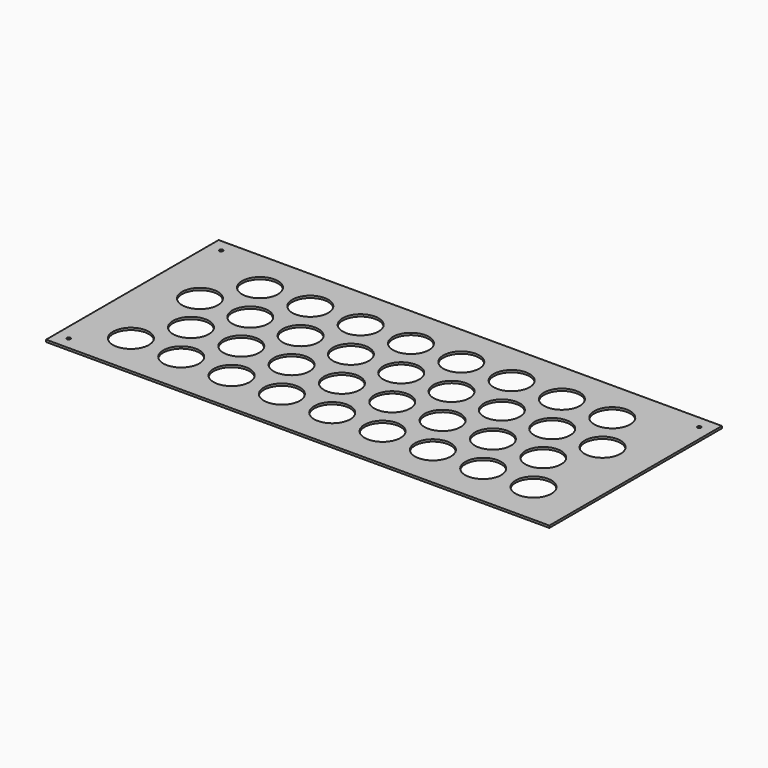
from build123d import *

# Parameters (mm, degrees)
F0_W     = 700
F0_H     = 300
F0_R     = 2.5
F0_R_2   = 25
F1_DEPTH = 3


with BuildPart() as f1:
    # F0 (on Top) → F1 (new body)
    with BuildSketch(Plane.XY):
        Rectangle(F0_W, F0_H)
        with Locations((-332.5, -132.5)):
            Circle(F0_R, mode=Mode.SUBTRACT)
        with Locations((-280, -90)):
            Circle(F0_R_2, mode=Mode.SUBTRACT)
        with Locations((-210, -90)):
            Circle(F0_R_2, mode=Mode.SUBTRACT)
        with Locations((-140, -90)):
            Circle(F0_R_2, mode=Mode.SUBTRACT)
        with Locations((-70, -90)):
            Circle(F0_R_2, mode=Mode.SUBTRACT)
        with Locations((-245, -29.378222)):
            Circle(F0_R_2, mode=Mode.SUBTRACT)
        with Locations((-175, -29.378222)):
            Circle(F0_R_2, mode=Mode.SUBTRACT)
        with Locations((-105, -29.378222)):
            Circle(F0_R_2, mode=Mode.SUBTRACT)
        with Locations((-35, -29.378222)):
            Circle(F0_R_2, mode=Mode.SUBTRACT)
        with Locations((0, -90)):
            Circle(F0_R_2, mode=Mode.SUBTRACT)
        with Locations((70, -90)):
            Circle(F0_R_2, mode=Mode.SUBTRACT)
        with Locations((140, -90)):
            Circle(F0_R_2, mode=Mode.SUBTRACT)
        with Locations((210, -90)):
            Circle(F0_R_2, mode=Mode.SUBTRACT)
        with Locations((280, -90)):
            Circle(F0_R_2, mode=Mode.SUBTRACT)
        with Locations((35, -29.378222)):
            Circle(F0_R_2, mode=Mode.SUBTRACT)
        with Locations((105, -29.378222)):
            Circle(F0_R_2, mode=Mode.SUBTRACT)
        with Locations((175, -29.378222)):
            Circle(F0_R_2, mode=Mode.SUBTRACT)
        with Locations((245, -29.378222)):
            Circle(F0_R_2, mode=Mode.SUBTRACT)
        with Locations((-280, 30)):
            Circle(F0_R_2, mode=Mode.SUBTRACT)
        with Locations((-210, 30)):
            Circle(F0_R_2, mode=Mode.SUBTRACT)
        with Locations((-140, 30)):
            Circle(F0_R_2, mode=Mode.SUBTRACT)
        with Locations((-70, 30)):
            Circle(F0_R_2, mode=Mode.SUBTRACT)
        with Locations((-245, 90.621778)):
            Circle(F0_R_2, mode=Mode.SUBTRACT)
        with Locations((-332.5, 132.5)):
            Circle(F0_R, mode=Mode.SUBTRACT)
        with Locations((-175, 90.621778)):
            Circle(F0_R_2, mode=Mode.SUBTRACT)
        with Locations((-105, 90.621778)):
            Circle(F0_R_2, mode=Mode.SUBTRACT)
        with Locations((-35, 90.621778)):
            Circle(F0_R_2, mode=Mode.SUBTRACT)
        with Locations((0, 30)):
            Circle(F0_R_2, mode=Mode.SUBTRACT)
        with Locations((70, 30)):
            Circle(F0_R_2, mode=Mode.SUBTRACT)
        with Locations((140, 30)):
            Circle(F0_R_2, mode=Mode.SUBTRACT)
        with Locations((210, 30)):
            Circle(F0_R_2, mode=Mode.SUBTRACT)
        with Locations((280, 30)):
            Circle(F0_R_2, mode=Mode.SUBTRACT)
        with Locations((35, 90.621778)):
            Circle(F0_R_2, mode=Mode.SUBTRACT)
        with Locations((105, 90.621778)):
            Circle(F0_R_2, mode=Mode.SUBTRACT)
        with Locations((175, 90.621778)):
            Circle(F0_R_2, mode=Mode.SUBTRACT)
        with Locations((245, 90.621778)):
            Circle(F0_R_2, mode=Mode.SUBTRACT)
        with Locations((332.5, 132.5)):
            Circle(F0_R, mode=Mode.SUBTRACT)
    extrude(amount=F1_DEPTH)


solid = f1.part
